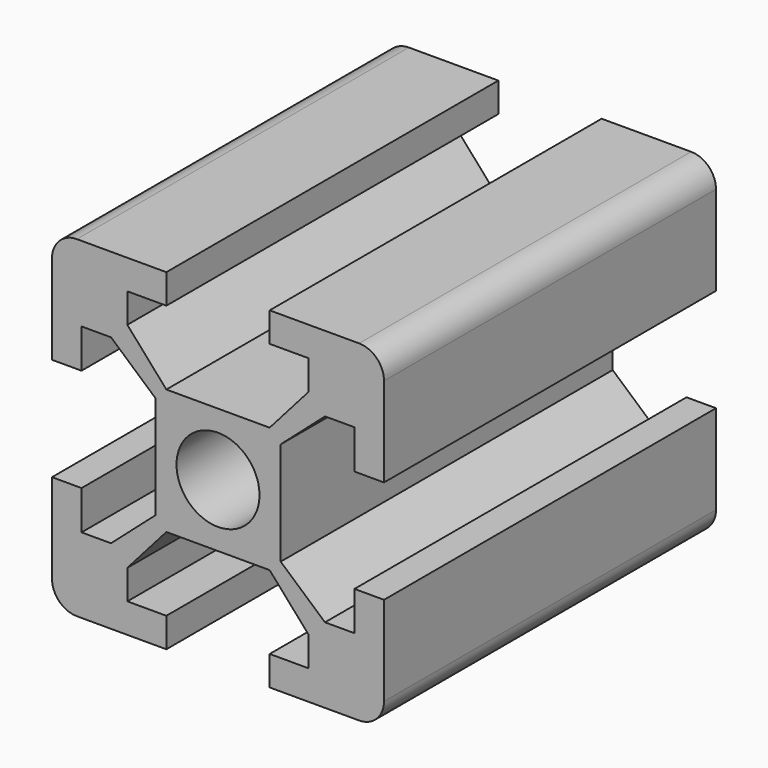
from build123d import *

# Parameters (mm, degrees)
F1_DEPTH = 25
F2_R     = 1.5
F3_R     = 2.5
F4_DEPTH = 25


with BuildPart() as f1:
    # F0 (on Front) → F1 (new body)
    with BuildSketch(Plane.XZ):
        Polygon((10, 3.1115), (10, 10), (3.1115, 10), (3.1115, 8.222), (5.461, 8.222), (5.461, 6.444), (3.1115, 3.777), (0, 3.777), (-3.1115, 3.777), (-5.461, 6.444), (-5.461, 8.222), (-3.1115, 8.222), (-3.1115, 10), (-10, 10), (-10, 3.1115), (-8.222, 3.1115), (-8.222, 5.461), (-6.444, 5.461), (-3.777, 3.1115), (-3.777, 0), (-3.777, -3.1115), (-6.444, -5.461), (-8.222, -5.461), (-8.222, -3.1115), (-10, -3.1115), (-10, -10), (-3.1115, -10), (-3.1115, -8.222), (-5.461, -8.222), (-5.461, -6.444), (-3.1115, -3.777), (0, -3.777), (3.1115, -3.777), (5.461, -6.444), (5.461, -8.222), (3.1115, -8.222), (3.1115, -10), (10, -10), (10, -3.1115), (8.222, -3.1115), (8.222, -5.461), (6.444, -5.461), (3.777, -3.1115), (3.777, 0), (3.777, 3.1115), (6.444, 5.461), (8.222, 5.461), (8.222, 3.1115), align=None)
    extrude(amount=F1_DEPTH)

    # F2
    f2_edges = [f1.edges().sort_by_distance(p)[0] for p in [
        (-10, -12.5, 10),
        (10, -12.5, 10),
        (10, -12.5, -10),
        (-10, -12.5, -10),
    ]]
    fillet(f2_edges, radius=F2_R)

    # F3 (on face) → F4 (cut, through all)
    with BuildSketch(Plane.XZ.offset(25)):
        Circle(F3_R)
    extrude(amount=-F4_DEPTH, mode=Mode.SUBTRACT)


solid = f1.part
